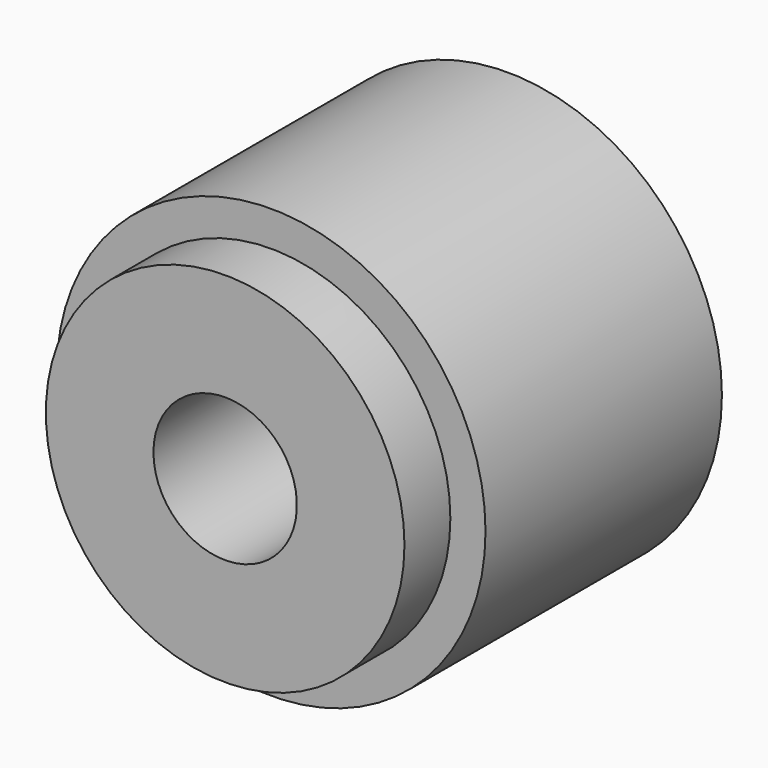
from build123d import *

# Parameters (mm, degrees)
F0_R     = 14.95
F1_DEPTH = 20.6
F2_R     = 12.5
F3_DEPTH = 4
F4_R     = 12.5
F5_DEPTH = 4.5
F6_R     = 5
F7_DEPTH = 25


with BuildPart() as f1:
    # F0 (on Front) → F1 (new body)
    with BuildSketch(Plane.XZ):
        Circle(F0_R)
    extrude(amount=F1_DEPTH)

    # F2 (on face) → F3 (join)
    with BuildSketch(Plane.XZ.offset(20.6)):
        Circle(F2_R)
    extrude(amount=F3_DEPTH)

    # F4 (on face) → F5 (cut)
    with BuildSketch(Plane(origin=(0, 0, 0), x_dir=(-1, 0, 0), z_dir=(0, 1, 0))):
        Circle(F4_R)
    extrude(amount=-F5_DEPTH, mode=Mode.SUBTRACT)

    # F6 (on face) → F7 (cut)
    with BuildSketch(Plane(origin=(0, -4.5, 0), x_dir=(-1, 0, 0), z_dir=(0, 1, 0))):
        Circle(F6_R)
    extrude(amount=-F7_DEPTH, mode=Mode.SUBTRACT)


solid = f1.part
